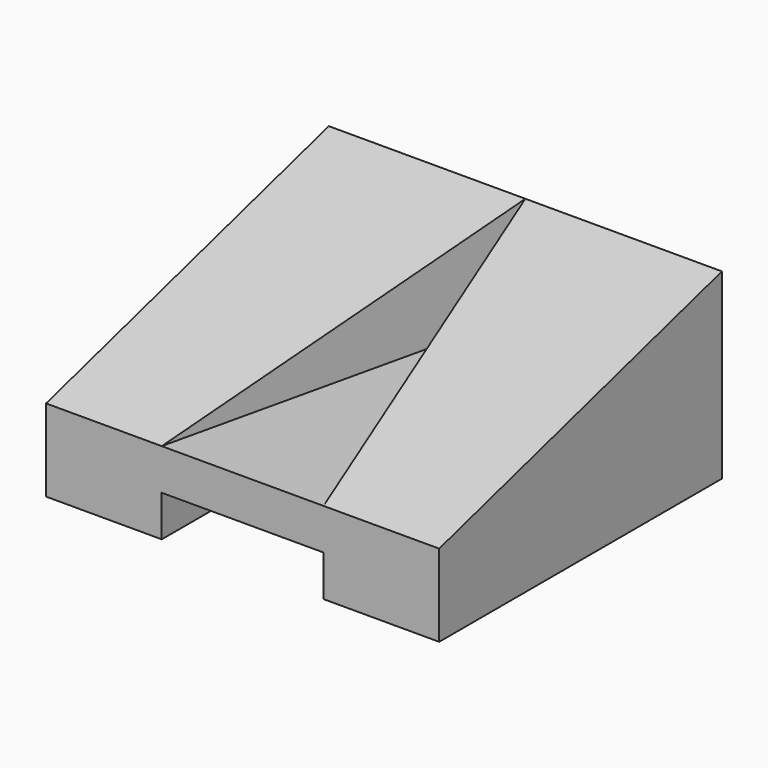
from build123d import *

# Parameters (mm, degrees)
F1_DEPTH = 46.6
F2_W     = 38.3587293327
F2_H     = 9.7292885184
F3_DEPTH = 83.7873460183
F6_DEPTH = 23.8091403077


with BuildPart() as f1:
    # F0 (on Right) → F1 (new body, symmetric)
    with BuildSketch(Plane.YZ):
        Polygon((0, 19.4585770369), (0, 0), (83.7863460183, 0), (83.7863460183, 43.2667173445), align=None)
    extrude(amount=F1_DEPTH, both=True)

    # F2 (on face) → F3 (cut, through all)
    with BuildSketch(Plane.XZ):
        with Locations((0, 4.8646442592)):
            Rectangle(F2_W, F2_H)
    extrude(amount=-F3_DEPTH, mode=Mode.SUBTRACT)

    # F5 (on plane+point) → F6 (cut, through all)
    with BuildSketch(Plane.XY.offset(19.4585770369)):
        with BuildLine():
            Line((-19.1793646663, 0), (19.1793646663, 0))
            Line((19.1793646663, 0), (0.097478719, 83.3605036706))
            ThreePointArc((0.097478719, 83.3605036706), (0, 83.4381900123), (-0.097478719, 83.3605036706))
            Line((-0.097478719, 83.3605036706), (-19.1793646663, 0))
        make_face()
    extrude(amount=F6_DEPTH, mode=Mode.SUBTRACT)


solid = f1.part
